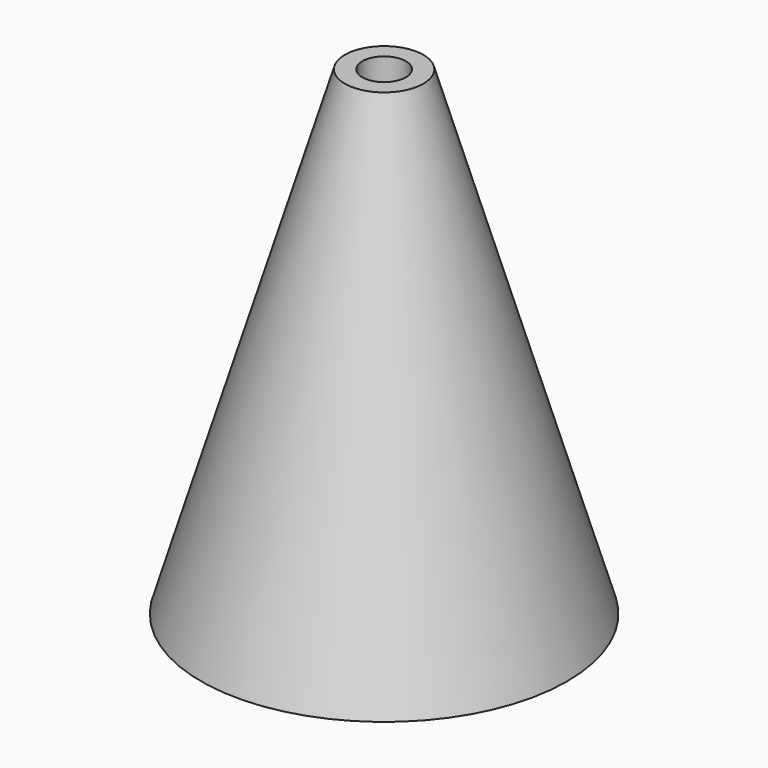
from build123d import *

# Parameters (mm, degrees)
F2_R     = 3.175
F3_DEPTH = 6.35


with BuildPart() as f1:
    # F0 (on Front) → F1 (revolve)
    with BuildSketch(Plane.XZ):
        Polygon((26.67, -21.780774), (5.715, 48.069226), (3.175, 48.069226), (3.175, 41.719226), (0, 41.719226), (0, -21.780774), align=None)
    revolve(axis=Axis((0, 0, 9.969226), (0, 0, 1)))

    # F2 (on face) → F3 (cut)
    with BuildSketch(Plane(origin=(0, 0, -21.780774), x_dir=(1, 0, 0), z_dir=(0, 0, -1))):
        Circle(F2_R)
    extrude(amount=-F3_DEPTH, mode=Mode.SUBTRACT)


solid = f1.part
